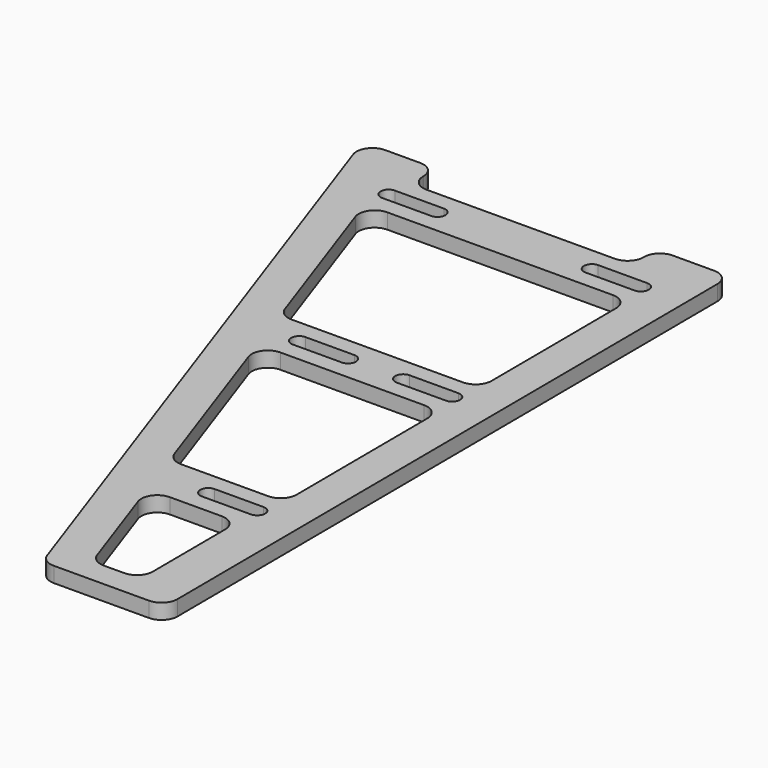
from build123d import *

# Parameters (mm, degrees)
PAD_DEPTH              = 6.25
FILLET_R               = 6.5
MIRROR_ROLL_ANGLE      = -179.860318
MIRROR_PITCH_ANGLE     = 1.669328
MIRROR_PLACEMENT_ANGLE = 0.337481


with BuildPart() as body:
    # Sketch → Pad (new body)
    with BuildSketch(Plane.XY):
        Polygon((0, 290), (50, 290), (150, 0), (120, 0), (120, 13.2), (30, 13.2), (30, 0), (0, 0), align=None)
        Polygon((15, 210), (15, 130), (89.30566, 130), (61.719453, 210), align=None, mode=Mode.SUBTRACT)
        Polygon((15, 110), (15, 33.2), (122.684971, 33.2), (96.202212, 110), align=None, mode=Mode.SUBTRACT)
        with BuildLine():
            ThreePointArc((18, 223.25), (14.75, 220), (18, 216.75))
            Line((18, 216.75), (38, 216.75))
            ThreePointArc((38, 216.75), (41.25, 220), (38, 223.25))
            Line((38, 223.25), (18, 223.25))
        make_face(mode=Mode.SUBTRACT)
        with BuildLine():
            ThreePointArc((60.5, 123.25), (57.25, 120), (60.5, 116.75))
            Line((60.5, 116.75), (80.5, 116.75))
            ThreePointArc((80.5, 116.75), (83.75, 120), (80.5, 123.25))
            Line((80.5, 123.25), (60.5, 123.25))
        make_face(mode=Mode.SUBTRACT)
        with BuildLine():
            ThreePointArc((18, 123.25), (14.75, 120), (18, 116.75))
            Line((18, 116.75), (38, 116.75))
            ThreePointArc((38, 116.75), (41.25, 120), (38, 123.25))
            Line((38, 123.25), (18, 123.25))
        make_face(mode=Mode.SUBTRACT)
        with BuildLine():
            ThreePointArc((18, 26.45), (14.75, 23.2), (18, 19.95))
            Line((18, 19.95), (38, 19.95))
            ThreePointArc((38, 19.95), (41.25, 23.2), (38, 26.45))
            Line((38, 26.45), (18, 26.45))
        make_face(mode=Mode.SUBTRACT)
        with BuildLine():
            ThreePointArc((101, 26.45), (97.75, 23.2), (101, 19.95))
            Line((101, 19.95), (121, 19.95))
            ThreePointArc((121, 19.95), (124.25, 23.2), (121, 26.45))
            Line((121, 26.45), (101, 26.45))
        make_face(mode=Mode.SUBTRACT)
        Polygon((18, 280), (18, 230), (54.822902, 230), (37.581522, 280), align=None, mode=Mode.SUBTRACT)
    extrude(amount=PAD_DEPTH)

    # Fillet
    fillet_edges = [body.edges().sort_by_distance(p)[0] for p in [
        (0, 0, 3.125),
        (50, 290, 3.125),
        (0, 290, 3.125),
        (150, 0, 3.125),
        (120, 0, 3.125),
        (30, 0, 3.125),
        (61.719453, 210, 3.125),
        (15, 210, 3.125),
        (96.202212, 110, 3.125),
        (15, 110, 3.125),
        (15, 130, 3.125),
        (15, 33.2, 3.125),
        (122.684971, 33.2, 3.125),
        (89.30566, 130, 3.125),
        (30, 13.2, 3.125),
        (120, 13.2, 3.125),
        (18, 280, 3.125),
        (18, 230, 3.125),
        (37.581522, 280, 3.125),
        (54.822902, 230, 3.125),
    ]]
    fillet(fillet_edges, radius=FILLET_R)


with BuildPart() as body_1:
    # Body placement: moved
    add(body.part.moved(Location((-2, 0, 0))))


with BuildPart() as body_mirrored:
    # mirror: instance of Body
    add(body_1.part.mirror(Plane(origin=(159.181488, 124.226166, 5.790833), x_dir=(-0.001618, 0.999999, 0), z_dir=(-0.999887, -0.001617, 0.014919))))


with BuildPart() as body_mirrored_1:
    # mirror roll: moved
    add(body_mirrored.part.rotate(Axis((0, 0, 0), (1, 0, 0)), MIRROR_ROLL_ANGLE))


with BuildPart() as body_mirrored_2:
    # mirror pitch: moved
    add(body_mirrored_1.part.rotate(Axis((0, 0, 0), (0, 1, 0)), MIRROR_PITCH_ANGLE))


with BuildPart() as body_mirrored_3:
    # mirror placement: moved
    add(body_mirrored_2.part.moved(Location((-113.201923, 287.892908, 10.586))).rotate(Axis((-113.201923, 287.892908, 10.586), (0, 0, 1)), MIRROR_PLACEMENT_ANGLE))


solid = body_mirrored_3.part
